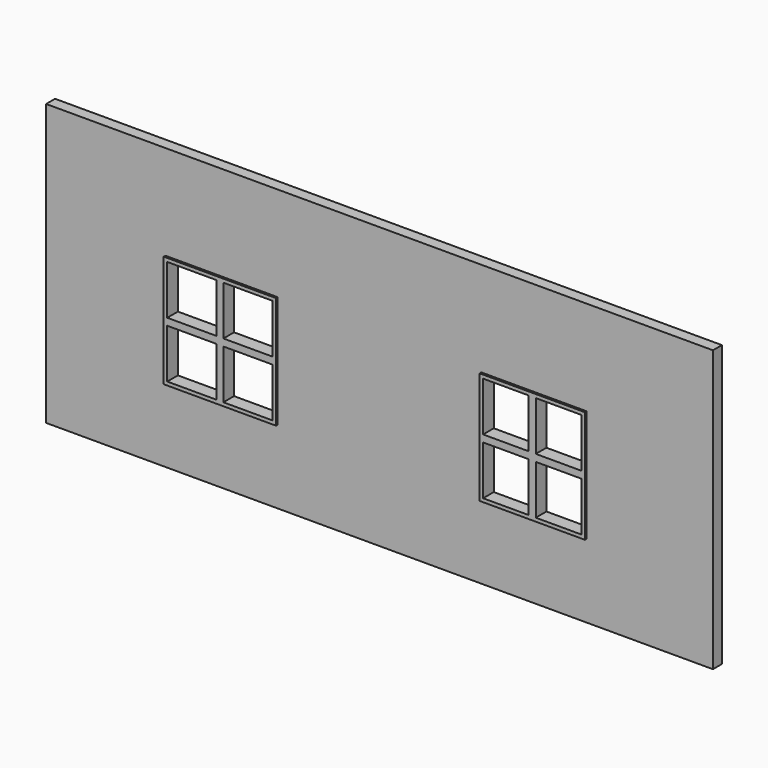
from build123d import *

# Parameters (mm, degrees)
F0_W      = 95
F0_H      = 1.6
F1_DEPTH  = 40
F2_W      = 15
F2_H      = 15
F2_W_2    = 14
F3_DEPTH  = 25
F4_W      = 16
F4_H      = 16
F4_W_2    = 15
F4_H_2    = 15
F4_W_3    = 14
F5_DEPTH  = 0.3
F6_W      = 1
F6_H      = 1.9
F7_DEPTH  = 15
F11_DEPTH = 15
F10_W     = 1.9
F10_H     = 1
F12_DEPTH = 14


with BuildPart() as f1:
    # F0 (on Top) → F1 (new body)
    with BuildSketch(Plane.XY):
        Rectangle(F0_W, F0_H)
    extrude(amount=F1_DEPTH)

    # F2 (on face) → F3 (cut)
    with BuildSketch(Plane.XZ.offset(0.8)):
        with Locations((-22.5, 18.5)):
            Rectangle(F2_W, F2_H)
        with Locations((22, 18.5)):
            Rectangle(F2_W_2, F2_H)
    extrude(amount=-F3_DEPTH, mode=Mode.SUBTRACT)

    # F4 (on face) → F5 (join)
    with BuildSketch(Plane.XZ.offset(0.8)):
        with Locations((-22.5, 18.5)):
            Rectangle(F4_W, F4_H)
        with Locations((-22.5, 18.5)):
            Rectangle(F4_W_2, F4_H_2, mode=Mode.SUBTRACT)
        with Locations((22, 18.5)):
            Rectangle(F4_W_2, F4_H)
        with Locations((22, 18.5)):
            Rectangle(F4_W_3, F4_H_2, mode=Mode.SUBTRACT)
    extrude(amount=F5_DEPTH)

    # F6 (on face) → F7 (join, through all)
    with BuildSketch(Plane.XY.offset(11)):
        with Locations((22, -0.15)):
            Rectangle(F6_W, F6_H)
        with Locations((-22.5, -0.15)):
            Rectangle(F6_W, F6_H)
    extrude(amount=F7_DEPTH)

    # F9 (on face) → F11 (join, through all)
    with BuildSketch(Plane(origin=(-15, 0, 0), x_dir=(0, -1, 0), z_dir=(-1, 0, 0))):
        Polygon((-0.8, 18), (0.8, 18), (1.1, 18), (1.1, 19), (-0.8, 19), align=None)
    extrude(amount=F11_DEPTH)

    # F10 (on face) → F12 (join, through all)
    with BuildSketch(Plane(origin=(29, 0, 0), x_dir=(0, -1, 0), z_dir=(-1, 0, 0))):
        with Locations((0.15, 18.5)):
            Rectangle(F10_W, F10_H)
    extrude(amount=F12_DEPTH)


solid = f1.part
